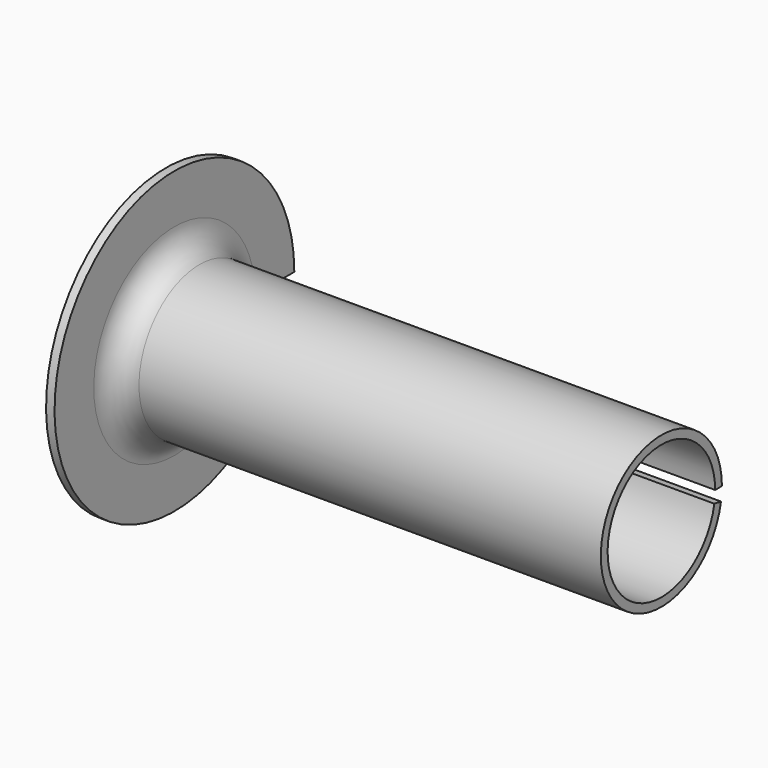
from build123d import *

# Parameters (mm, degrees)
F1_ANGLE = 350


with BuildPart() as f1:
    # F0 (on Top) → F1 (revolve)
    with BuildSketch(Plane.XY):
        with BuildLine():
            Line((1.2065, 2.413), (17.792, 2.413))
            Line((17.792, 2.413), (17.792, 2.7178))
            Line((17.792, 2.7178), (1.2065, 2.7178))
            ThreePointArc((1.2065, 2.7178), (0.568902, 2.981902), (0.3048, 3.6195))
            Line((0.3048, 3.6195), (0.3048, 5.3815))
            Line((0.3048, 5.3815), (0, 5.3815))
            Line((0, 5.3815), (0, 3.6195))
            ThreePointArc((0, 3.6195), (0.353376, 2.766376), (1.2065, 2.413))
        make_face()
    revolve(axis=Axis((8.896, 0, 0), (1, 0, 0)), revolution_arc=F1_ANGLE)


solid = f1.part
